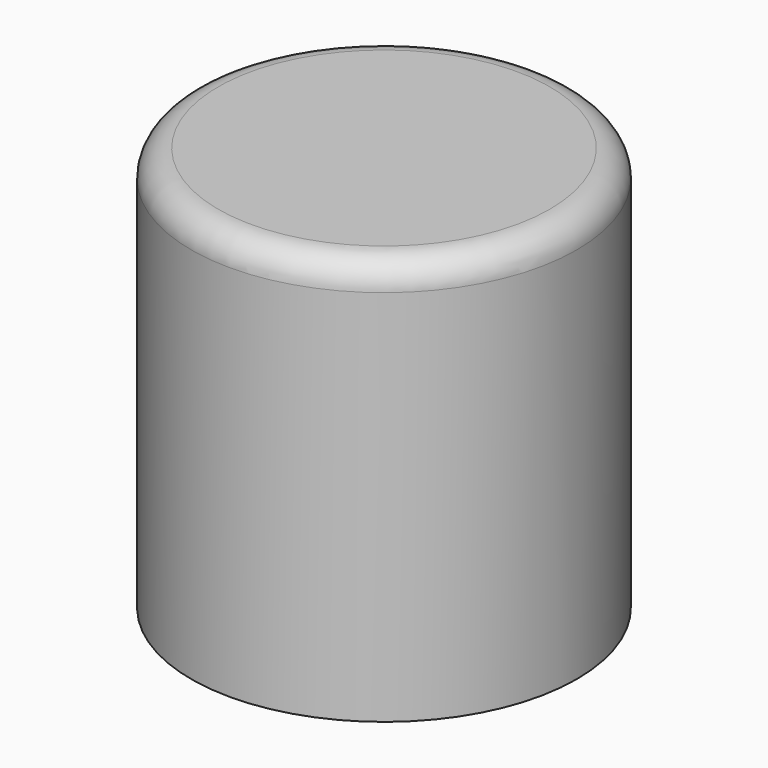
from build123d import *

# Parameters (mm, degrees)
F0_R     = 50
F0_R_2   = 46
F0_R_3   = 42
F1_DEPTH = 5
F2_DEPTH = 50
F3_DEPTH = 100
F4_R     = 7


with BuildPart() as f1:
    # F0 (on Top) → F1 (new body)
    with BuildSketch(Plane.XY):
        Circle(F0_R)
        Circle(F0_R_2, mode=Mode.SUBTRACT)
        Circle(F0_R_2)
        Circle(F0_R_3, mode=Mode.SUBTRACT)
        Circle(F0_R_3)
    extrude(amount=F1_DEPTH)

    # F0 (on Top) → F2 (join)
    with BuildSketch(Plane.XY):
        Circle(F0_R_2)
        Circle(F0_R_3, mode=Mode.SUBTRACT)
    extrude(amount=-F2_DEPTH)

    # F0 (on Top) → F3 (join)
    with BuildSketch(Plane.XY):
        Circle(F0_R)
        Circle(F0_R_2, mode=Mode.SUBTRACT)
    extrude(amount=-F3_DEPTH)

    # F4
    f4_edges = [f1.edges().sort_by_distance(p)[0] for p in [
        (-50, 0, 5),
    ]]
    fillet(f4_edges, radius=F4_R)


solid = f1.part
